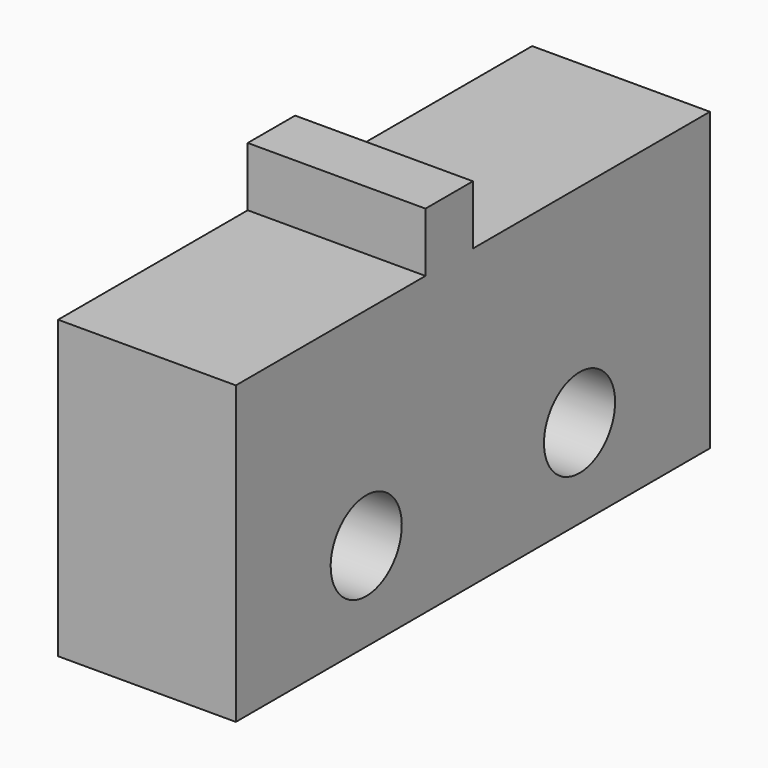
from build123d import *

# Parameters (mm, degrees)
CYLINDER033_R       = 1.5
CYLINDER033_DEPTH   = 10
ARRAY001016_Y_COUNT = 2
ARRAY001016_Y_PITCH = 9
BOX016_W            = 6
BOX016_H            = 20
BOX016_DEPTH        = 10
BOX017_W            = 6
BOX017_H            = 2
BOX017_DEPTH        = 2


with BuildPart() as end_stop_hole_array:
    # Cylinder033 → Cylinder033 (new body)
    with BuildSketch(Plane(origin=(-2, 5.5, 3), x_dir=(0, 0, -1), z_dir=(1, 0, 0))):
        Circle(CYLINDER033_R)
    extrude(amount=CYLINDER033_DEPTH)

    # Array001016 Y: end stop hole array ×2


with BuildPart() as end_stop_hole_array_1:
    add(end_stop_hole_array.part)
    with Locations(*[(0, i * ARRAY001016_Y_PITCH, 0) for i in range(1, ARRAY001016_Y_COUNT)]):
        add(end_stop_hole_array.part)


with BuildPart() as end_stop_body_cube:
    # Box016 → Box016 (new body)
    with BuildSketch(Plane.XY):
        with Locations((3, 10)):
            Rectangle(BOX016_W, BOX016_H)
    extrude(amount=BOX016_DEPTH)


with BuildPart() as end_stop_clone:
    # Box017 → Box017 (new body)
    with BuildSketch(Plane(origin=(0, 8, 10), x_dir=(1, 0, 0), z_dir=(0, 0, 1))):
        with Locations((3, 1)):
            Rectangle(BOX017_W, BOX017_H)
    extrude(amount=BOX017_DEPTH)

    # Fusion011: union end stop body cube
    add(end_stop_body_cube.part)

    # Cut013: cut end stop hole array
    add(end_stop_hole_array_1.part, mode=Mode.SUBTRACT)


with BuildPart() as end_stop_clone_1:
    # Body005 placement: moved
    add(end_stop_clone.part.moved(Location((54, -9, -123))))


solid = end_stop_clone_1.part
